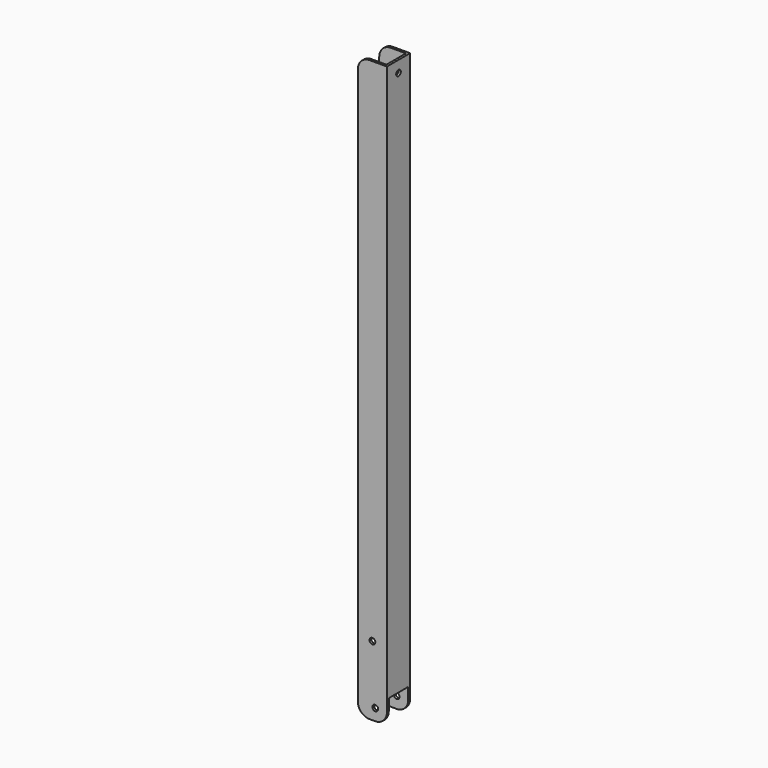
from build123d import *

# Parameters (mm, degrees)
F1_DEPTH  = 500
F2_W      = 2
F2_H      = 21
F3_DEPTH  = 20
F4_R      = 2.5
F5_DEPTH  = 25
F6_R      = 10
F7_R      = 2.5
F8_DEPTH  = 25
F9_R      = 2.5
F10_DEPTH = 25


with BuildPart() as f1:
    # F0 (on Top) → F1 (new body)
    with BuildSketch(Plane.XY):
        Polygon((-46.834455, -41.400001), (-46.834455, -43.400001), (-21.834455, -43.400001), (-21.834455, -18.400001), (-46.834455, -18.400001), (-46.834455, -20.400001), (-23.834455, -20.400001), (-23.834455, -41.400001), align=None)
    extrude(amount=F1_DEPTH)

    # F2 (on face) → F3 (cut)
    with BuildSketch(Plane(origin=(0, 0, 0), x_dir=(1, 0, 0), z_dir=(0, 0, -1))):
        with Locations((-22.834455, 30.900001)):
            Rectangle(F2_W, F2_H)
    extrude(amount=-F3_DEPTH, mode=Mode.SUBTRACT)

    # F4 (on face) → F5 (cut)
    with BuildSketch(Plane.XZ.offset(43.400001)):
        with Locations((-31.834455, 10)):
            Circle(F4_R)
    extrude(amount=-F5_DEPTH, mode=Mode.SUBTRACT)

    # F6
    f6_edges = [f1.edges().sort_by_distance(p)[0] for p in [
        (-46.834455, -19.400001, 0),
        (-46.834455, -42.400001, 0),
        (-46.834455, -42.400001, 500),
        (-46.834455, -19.400001, 500),
        (-21.834455, -42.400001, 0),
        (-21.834455, -19.400001, 0),
    ]]
    fillet(f6_edges, radius=F6_R)

    # F7 (on face) → F8 (cut)
    with BuildSketch(Plane.YZ.offset(-21.834455)):
        with Locations((-30.900001, 490)):
            Circle(F7_R)
    extrude(amount=-F8_DEPTH, mode=Mode.SUBTRACT)

    # F9 (on face) → F10 (cut)
    with BuildSketch(Plane.XZ.offset(43.400001)):
        with Locations((-34.334455, 60)):
            Circle(F9_R)
    extrude(amount=-F10_DEPTH, mode=Mode.SUBTRACT)


solid = f1.part
